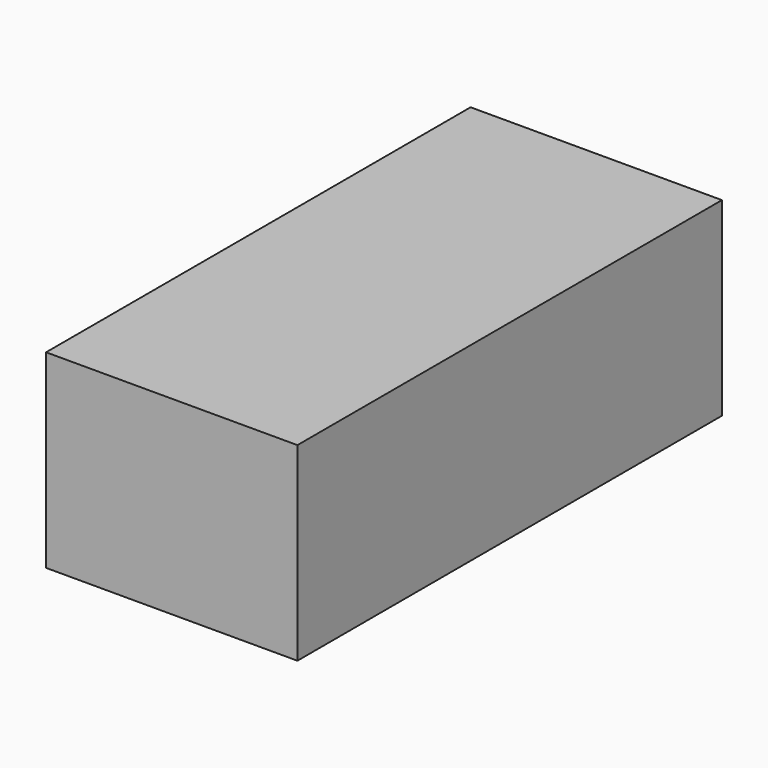
from build123d import *

# Parameters (mm, degrees)
F0_W     = 529.62968
F0_H     = 259.053551
F1_DEPTH = 400


with BuildPart() as f1:
    # F0 (on Top) → F1 (new body)
    with BuildSketch(Plane.XY):
        Polygon((875.388924, -120.755879), (345.759244, 179.244121), (345.759244, -679.80943), (875.388924, -679.80943), align=None)
        Polygon((875.388924, 179.244121), (345.759244, 179.244121), (875.388924, -120.755879), align=None)
        with Locations((610.574084, 308.770896)):
            Rectangle(F0_W, F0_H)
    extrude(amount=F1_DEPTH)


solid = f1.part
